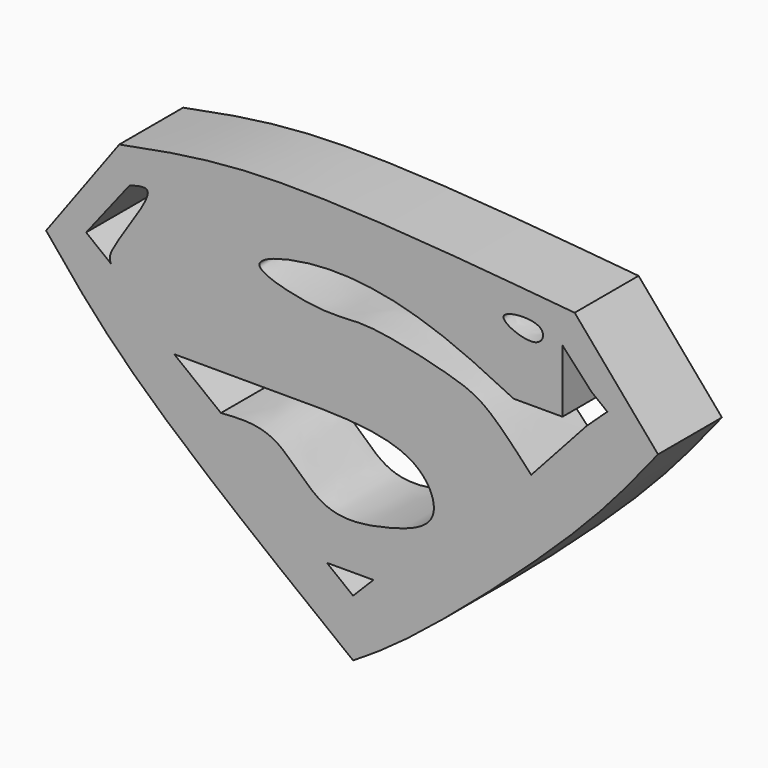
from build123d import *

# Parameters (mm, degrees)
F1_DEPTH = 12.7


with BuildPart() as f1:
    # F0 (on Front) → F1 (new body)
    with BuildSketch(Plane.XZ):
        with BuildLine():
            Line((48.4909079969, 5.9787081555), (35.236723721, 21.4958004653))
            add(Edge.make_bspline(
                [(-37.1763631701, 21.4958004653), (-30.4922389815, 22.790245679), (-13.8237696739, 26.0182557675), (16.8582932137, 23.1899462992), (35.236723721, 21.4958004653)],
                knots=[0, 0, 0, 0, 0.4010040793, 1, 1, 1, 1], degree=3))
            Line((-37.1763631701, 21.4958004653), (-48.8141812384, 5.6554353796))
            add(Edge.make_bspline(
                [(-48.8141812384, 5.6554353796), (-44.8403164381, 0.7530456089), (-35.0104188161, -11.3736854126), (-13.0704494977, -28.4562281329), (0, -38.6329293251)],
                knots=[0, 0, 0, 0, 0.4042630913, 1, 1, 1, 1], degree=3))
            add(Edge.make_bspline(
                [(48.4909079969, 5.9787081555), (44.8904951878, 1.4490455574), (36.4894704691, -9.1202445411), (9.978774935, -32.3836513029), (2.6581978512, -36.9682142154), (0, -38.6329293251)],
                knots=[0, 0, 0, 0, 0.3232538828, 0.7542645813, 1, 1, 1, 1], degree=3))
        make_face()
        Polygon((3.2327261288, -26.3239309324), (0, -29.5812916011), (-4.1621838152, -26.3239309324), align=None, mode=Mode.SUBTRACT)
        with BuildLine():
            add(Edge.make_bspline(
                [(-28.4480005503, -5.0125648268), (-22.1091164505, -5.0009936703), (-9.6048651103, -4.9781680994), (10.2672546047, -5.1245428498), (14.6723723069, -15.4623298937), (5.1981909958, -18.6434819903), (-5.2335699235, -20.2499613433), (-11.8916631255, -10.1838847718), (-18.0761399204, -10.6229779296), (-21.0127271712, -10.8314733952)],
                knots=[0, 0, 0, 0, 0.1884815871, 0.3718037908, 0.4848198852, 0.6056274056, 0.7399920061, 0.8765398941, 1, 1, 1, 1], degree=3))
            Line((-21.0127271712, -10.8314733952), (-28.4480005503, -5.0125648268))
        make_face(mode=Mode.SUBTRACT)
        with BuildLine():
            add(Edge.make_bspline(
                [(-38.4694561362, 4.3623442762), (-38.6533794555, 4.7232636941), (-39.3353238969, 6.0614680713), (-29.9450358126, 17.8599300389), (-34.1461460535, 16.6895645432), (-35.5338509463, 16.3029710401)],
                knots=[0, 0, 0, 0, 0.1982803923, 0.735177094, 1, 1, 1, 1], degree=3))
            Line((-38.4694561362, 4.3623442762), (-42.4442321206, 7.4730379728))
            Line((-42.4442321206, 7.4730379728), (-35.5338509463, 16.3029710401))
        make_face(mode=Mode.SUBTRACT)
        with BuildLine():
            Line((33.2970917225, 6.3019809313), (33.2970917225, 16.3029710401))
            Line((33.2970917225, 16.3029710401), (37.8975473915, 11.3024759857))
            Line((37.8975473915, 11.3024759857), (40.4264117575, 9.323365094))
            Line((40.4264117575, 9.323365094), (37.1763631701, 6.3019809313))
            Line((37.1763631701, 6.3019809313), (28.3229519033, -3.4561581429))
            add(Edge.make_bspline(
                [(25.5385432392, 6.3019809313), (20.9778197005, 8.5478855169), (11.5117521271, 13.2094012588), (-4.5961265742, 16.0705158031), (-19.8744258084, 11.6866465044), (-3.9120833051, 8.1031682244), (1.6488071751, 9.6499650339), (15.4946900706, 6.4180829782), (21.2232439982, 4.2673584975), (25.7769204491, -0.686422181), (28.3229519033, -3.4561581429)],
                knots=[0, 0, 0, 0, 0.1490080045, 0.3092754533, 0.422175284, 0.542633541, 0.6458581709, 0.7833280946, 0.8788553617, 1, 1, 1, 1], degree=3))
            Line((25.5385432392, 6.3019809313), (33.2970917225, 6.3019809313))
        make_face(mode=Mode.SUBTRACT)
        with BuildLine():
            add(Edge.make_bspline(
                [(23.9221826196, 17.2932539135), (23.709703424, 16.3345558525), (29.7102568431, 13.8088770407), (31.1284897834, 18.9057951608), (24.1404262468, 18.2779608715), (23.9221826196, 17.2932539135)],
                knots=[0, 0, 0, 0, 0.3731560578, 0.6167204447, 1, 1, 1, 1], degree=3))
        make_face(mode=Mode.SUBTRACT)
    extrude(amount=F1_DEPTH)


solid = f1.part
